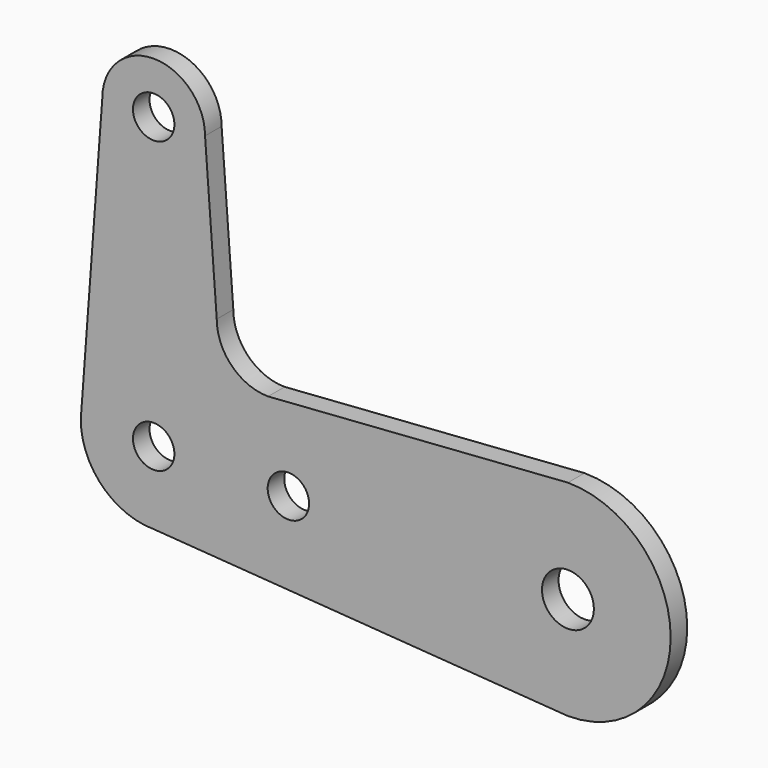
from build123d import *

# Parameters (mm, degrees)
F0_R     = 3.175
F0_R_2   = 3.9751
F1_DEPTH = 3.175


with BuildPart() as f1:
    # F0 (on Front) → F1 (new body)
    with BuildSketch(Plane.XZ):
        with BuildLine():
            ThreePointArc((-12.7762, 44.45), (-20.6502, 52.324), (-28.5242, 44.45))
            Line((-28.5242, 44.45), (-31.8262, 0))
            ThreePointArc((-31.8262, 0), (-28.552825, -7.902625), (-20.6502, -11.176))
            Line((-20.6502, -11.176), (42.8498, -15.748))
            ThreePointArc((42.8498, -15.748), (58.5978, 0), (42.8498, 15.748))
            Line((42.8498, 15.748), (-3.109162, 12.438955))
            ThreePointArc((-3.109162, 12.438955), (-8.676921, 14.745196), (-10.983162, 20.312955))
            Line((-10.983162, 20.312955), (-12.7762, 44.45))
        make_face()
        with Locations((-20.6502, 0)):
            Circle(F0_R, mode=Mode.SUBTRACT)
        Circle(F0_R, mode=Mode.SUBTRACT)
        with Locations((42.8498, 0)):
            Circle(F0_R_2, mode=Mode.SUBTRACT)
        with Locations((-20.6502, 44.45)):
            Circle(F0_R, mode=Mode.SUBTRACT)
    extrude(amount=F1_DEPTH)


solid = f1.part
